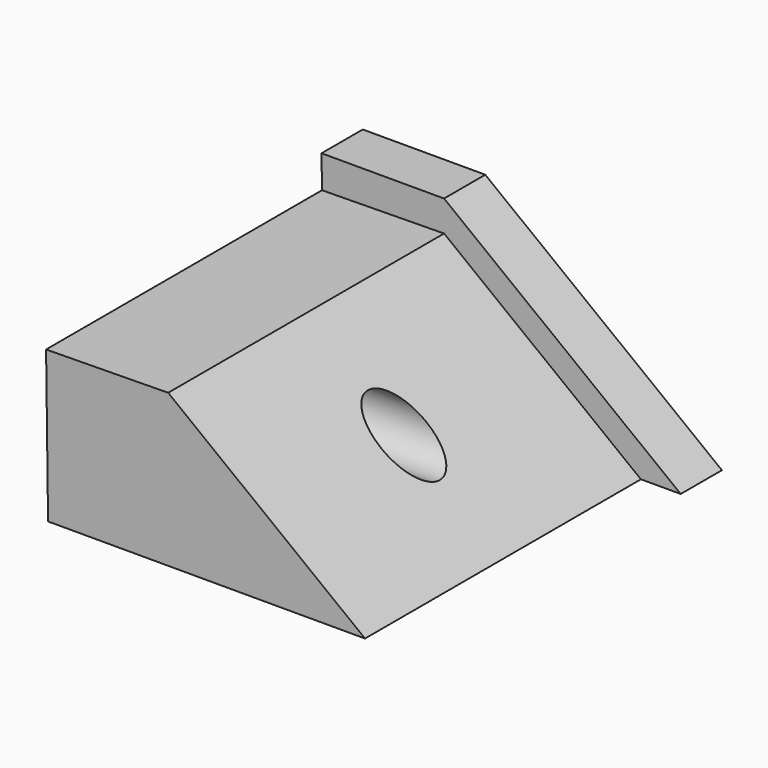
from build123d import *

# Parameters (mm, degrees)
F1_DEPTH = 76.2
F3_DEPTH = 66.294
F4_R     = 5.442809
F5_DEPTH = 87.884


with BuildPart() as f1:
    # F0 (on Front) → F1 (new body)
    with BuildSketch(Plane.XZ):
        Polygon((-34.636363, 35.213638), (-34.174547, 0), (34.405455, 0), (-11.083637, 35.213638), align=None)
    extrude(amount=F1_DEPTH)

    # F2 (on face) → F3 (cut)
    with BuildSketch(Plane.XZ.offset(76.2)):
        Polygon((-11.083637, 29.291008), (26.754583, 0), (34.405455, 0), (-11.083637, 35.213638), (-34.636363, 35.213638), (-34.554653, 28.983193), align=None)
    extrude(amount=-F3_DEPTH, mode=Mode.SUBTRACT)

    # F4 (on face) → F5 (cut)
    with BuildSketch(Plane(origin=(-34.16867, 0, -0.448112), x_dir=(0, -1, 0), z_dir=(-0.999914, 0, -0.013114))):
        with Locations((43.053, 14.650282)):
            Circle(F4_R)
    extrude(amount=-F5_DEPTH, mode=Mode.SUBTRACT)


solid = f1.part
